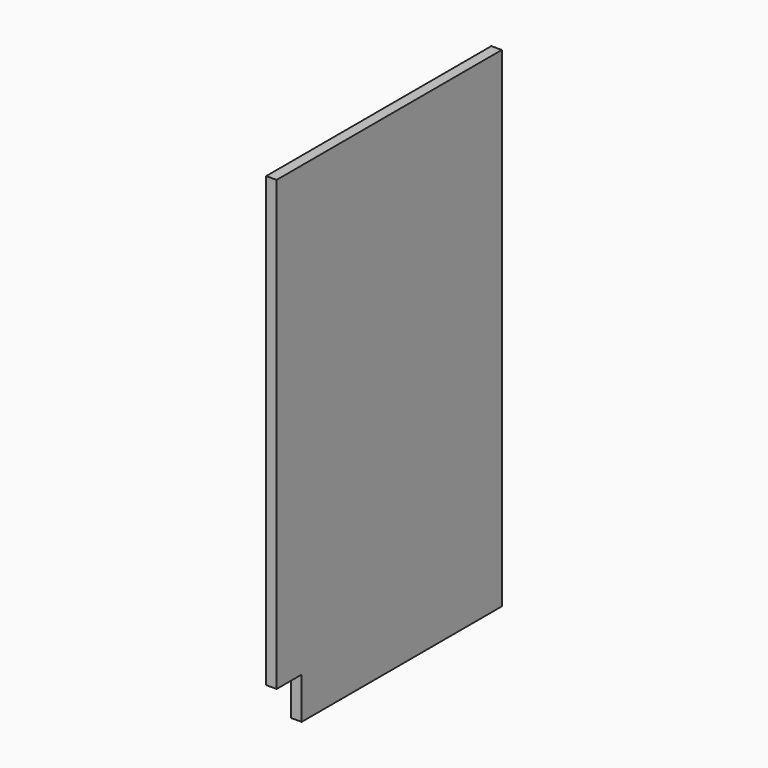
from build123d import *

# Parameters (mm, degrees)
F1_DEPTH = 19.05


with BuildPart() as f1:
    # F0 (on Right) → F1 (new body)
    with BuildSketch(Plane.YZ):
        Polygon((321.733333, 658.283333), (-192.616667, 658.283333), (-192.616667, -160.866667), (-135.466667, -160.866667), (-135.466667, -237.066667), (321.733333, -237.066667), (321.733333, -160.866667), align=None)
    extrude(amount=-F1_DEPTH)


solid = f1.part
